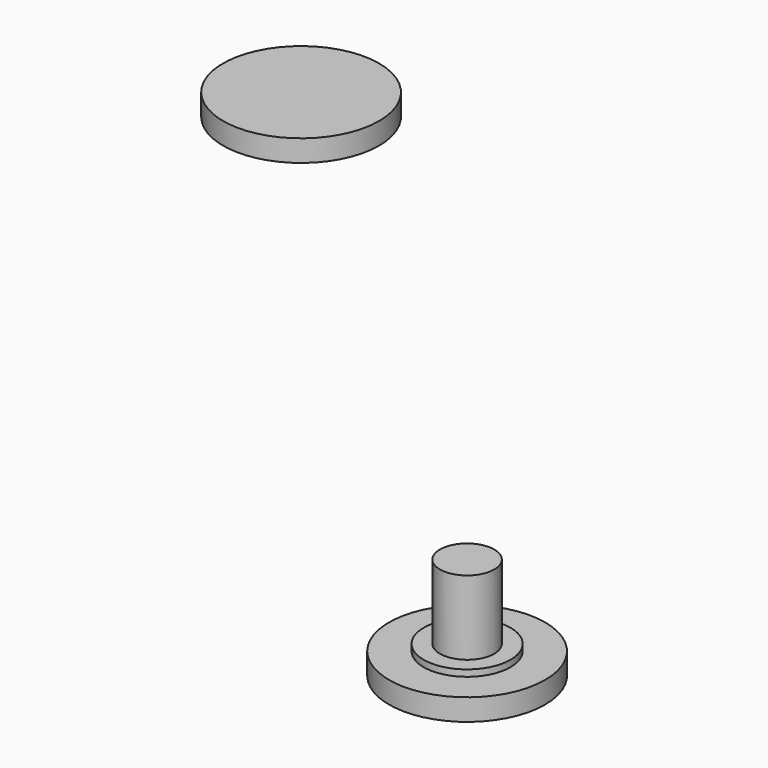
from build123d import *

# Parameters (mm, degrees)
F0_R      = 9.1310834052
F1_DEPTH  = 2.54
F2_R      = 9.1310823042
F3_DEPTH  = 2.54
F4_R      = 3.175
F5_DEPTH  = 9.4488
F6_R      = 3.175
F7_DEPTH  = 1.778
F8_R      = 3.175
F9_DEPTH  = 2.032
F10_R     = 3.175
F11_DEPTH = 2.286
F12_R     = 5.08
F12_R_2   = 3.175
F13_DEPTH = 0.762
F14_R     = 5.08
F14_R_2   = 3.175
F15_DEPTH = 0.762


with BuildPart() as f1:
    # F0 (on Top) → F1 (new body)
    with BuildSketch(Plane.XY):
        with Locations((-41.4217039943, 42.0963279903)):
            Circle(F0_R)
    extrude(amount=F1_DEPTH)

    # F6 (on face) → F7 (join)
    with BuildSketch(Plane(origin=(0, 0, 0), x_dir=(1, 0, 0), z_dir=(0, 0, -1))):
        with Locations((-41.4217039943, -42.0963279903)):
            Circle(F6_R)
    extrude(amount=-F7_DEPTH)

    # F8 (on face) → F9 (join)
    with BuildSketch(Plane(origin=(0, 0, 0), x_dir=(1, 0, 0), z_dir=(0, 0, -1))):
        with Locations((-41.4217039943, -42.0963279903)):
            Circle(F8_R)
    extrude(amount=-F9_DEPTH)

    # F10 (on face) → F11 (cut)
    with BuildSketch(Plane(origin=(0, 0, 0), x_dir=(1, 0, 0), z_dir=(0, 0, -1))):
        with Locations((-41.4217039943, -42.0963279903)):
            Circle(F10_R)
    extrude(amount=-F11_DEPTH, mode=Mode.SUBTRACT)

    # F12 (on face) → F13 (join)
    with BuildSketch(Plane(origin=(0, 0, 0), x_dir=(1, 0, 0), z_dir=(0, 0, -1))):
        with Locations((-41.4217039943, -42.0963279903)):
            Circle(F12_R)
        with Locations((-41.4217039943, -42.0963279903)):
            Circle(F12_R_2, mode=Mode.SUBTRACT)
    extrude(amount=F13_DEPTH)


with BuildPart() as f3:
    # F2 (on Top) → F3 (new body)
    with BuildSketch(Plane.XY):
        with Locations((39.5327694714, -34.8104201257)):
            Circle(F2_R)
    extrude(amount=F3_DEPTH)

    # F4 (on face) → F5 (join)
    with BuildSketch(Plane.XY.offset(2.54)):
        with Locations((39.5327694714, -34.8104201257)):
            Circle(F4_R)
    extrude(amount=F5_DEPTH)

    # F14 (on face) → F15 (join)
    with BuildSketch(Plane.XY.offset(2.54)):
        with Locations((39.5327694714, -34.8104201257)):
            Circle(F14_R)
        with Locations((39.5327694714, -34.8104201257)):
            Circle(F14_R_2, mode=Mode.SUBTRACT)
    extrude(amount=F15_DEPTH)


solid = Compound([f1.part, f3.part])
